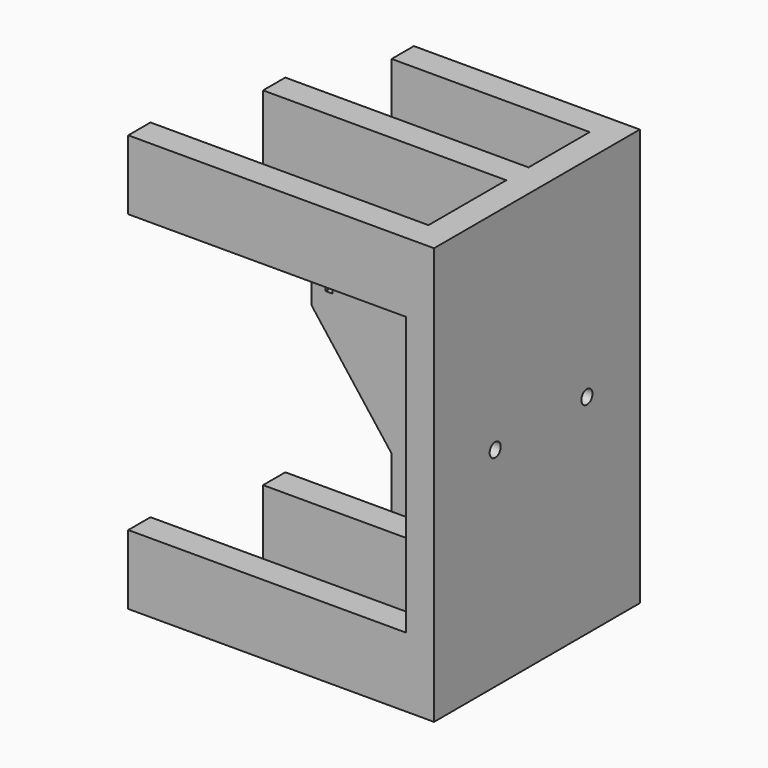
from build123d import *

# Parameters (mm, degrees)
SKETCH005_R         = 2
EXTRUDE002_DEPTH    = 20
SKETCH002_R         = 7.75
EXTRUDE_DEPTH       = 16
BOX_W               = 8
BOX_H               = 74
BOX_DEPTH           = 120
PAD001_DEPTH        = 20
PAD_DEPTH           = 20
HOLE_D              = 4.4
HOLE_CBORE_D        = 8
HOLE_CBORE_DEPTH    = 2.4
HOLE001_D           = 1.75
HOLE001_CBORE_D     = 3.2
HOLE001_CBORE_DEPTH = 0.96
BOX001_W            = 65
BOX001_H            = 8
BOX001_DEPTH        = 120
BOX002_W            = 2
BOX002_H            = 10
BOX002_DEPTH        = 10
EXTRUDE001_DEPTH    = 8
CHAMFER_SIZE        = 2.5


with BuildPart() as extrude002:
    # Sketch005 (on Face21 of Fusion001) → Extrude002 (new body)
    with BuildSketch(Plane(origin=(-8, 0, 0), x_dir=(0, -1, 0), z_dir=(-1, 0, 0))):
        with Locations((-55, 60)):
            Circle(SKETCH005_R)
        with Locations((-22, 60)):
            Circle(SKETCH005_R)
    extrude(amount=EXTRUDE002_DEPTH)


with BuildPart() as extrude002_1:
    # Extrude002 placement: moved
    add(extrude002.part.moved(Location((16, 0, 0))))


with BuildPart() as extrude_body:
    # Sketch002 (on Face9 of Fusion) → Extrude (new body)
    with BuildSketch(Plane(origin=(0, 74, 0), x_dir=(-1, 0, 0), z_dir=(0, 1, 0))):
        with Locations((35, 60)):
            Circle(SKETCH002_R)
    extrude(amount=EXTRUDE_DEPTH)


with BuildPart() as cube:
    # Box → Box (new body)
    with BuildSketch(Plane(origin=(-8, 0, 0), x_dir=(1, 0, 0), z_dir=(0, 0, 1))):
        with Locations((4, 37)):
            Rectangle(BOX_W, BOX_H)
    extrude(amount=BOX_DEPTH)


with BuildPart() as body001:
    # Sketch001 → Pad001 (new body)
    with BuildSketch(Plane.XY):
        Polygon((-88, 8), (-8, 8), (-8, 36), (-78, 36), (-78, 44), (-8, 44), (-8, 66), (-65, 66), (-65, 74), (0, 74), (0, 0), (-88, 0), align=None)
    extrude(amount=PAD001_DEPTH)


with BuildPart() as body001_1:
    # Body001 placement: moved
    add(body001.part.moved(Location((0, 0, 100))))


with BuildPart() as body:
    # Sketch → Pad (new body)
    with BuildSketch(Plane.XY):
        Polygon((-88, 8), (-8, 8), (-8, 36), (-78, 36), (-78, 44), (-8, 44), (-8, 66), (-65, 66), (-65, 74), (0, 74), (0, 0), (-88, 0), align=None)
    extrude(amount=PAD_DEPTH)

    # Hole (through all)
    with Locations(Plane(origin=(-8, 0, 0), x_dir=(0, -1, 0), z_dir=(-1, 0, 0))):
        with Locations((-55, 60), (-22, 60)):
            CounterBoreHole(HOLE_D / 2, HOLE_CBORE_D / 2, HOLE_CBORE_DEPTH)

    # Hole001 (through all)
    with Locations(Plane(origin=(-8, 0, 0), x_dir=(0, -1, 0), z_dir=(-1, 0, 0))):
        with Locations((-55, 60), (-22, 60)):
            CounterBoreHole(HOLE001_D / 2, HOLE001_CBORE_D / 2, HOLE001_CBORE_DEPTH)


with BuildPart() as fusion:
    # Box001 → Box001 (new body)
    with BuildSketch(Plane(origin=(-65, 66, 0), x_dir=(1, 0, 0), z_dir=(0, 0, 1))):
        with Locations((32.5, 4)):
            Rectangle(BOX001_W, BOX001_H)
    extrude(amount=BOX001_DEPTH)

    # Fusion: union Cube, Body001, Body
    add(cube.part)
    add(body001_1.part)
    add(body.part)


with BuildPart() as cube002:
    # Box002 → Box002 (new body)
    with BuildSketch(Plane(origin=(-84, 64, 55), x_dir=(1, 0, 0), z_dir=(0, 0, 1))):
        with Locations((1, 5)):
            Rectangle(BOX002_W, BOX002_H)
    extrude(amount=BOX002_DEPTH)


with BuildPart() as chamfer_body:
    # Sketch003 (on Face9 of Fusion) → Extrude001 (new body)
    with BuildSketch(Plane(origin=(0, 74, 0), x_dir=(-1, 0, 0), z_dir=(0, 1, 0))):
        Polygon((65, 100), (65, 20), (88, 50), (88, 70), align=None)
    extrude(amount=-EXTRUDE001_DEPTH)

    # Cut: cut Cube002
    add(cube002.part, mode=Mode.SUBTRACT)

    # Fusion001: union Extrude body, Fusion
    add(extrude_body.part)
    add(fusion.part)

    # Cut001: cut Extrude002
    add(extrude002_1.part, mode=Mode.SUBTRACT)

    # Chamfer
    chamfer_edges = [chamfer_body.edges().sort_by_distance(p)[0] for p in [
        (-8, 24, 60),
        (-8, 57, 60),
    ]]
    chamfer(chamfer_edges, length=CHAMFER_SIZE)


solid = chamfer_body.part
